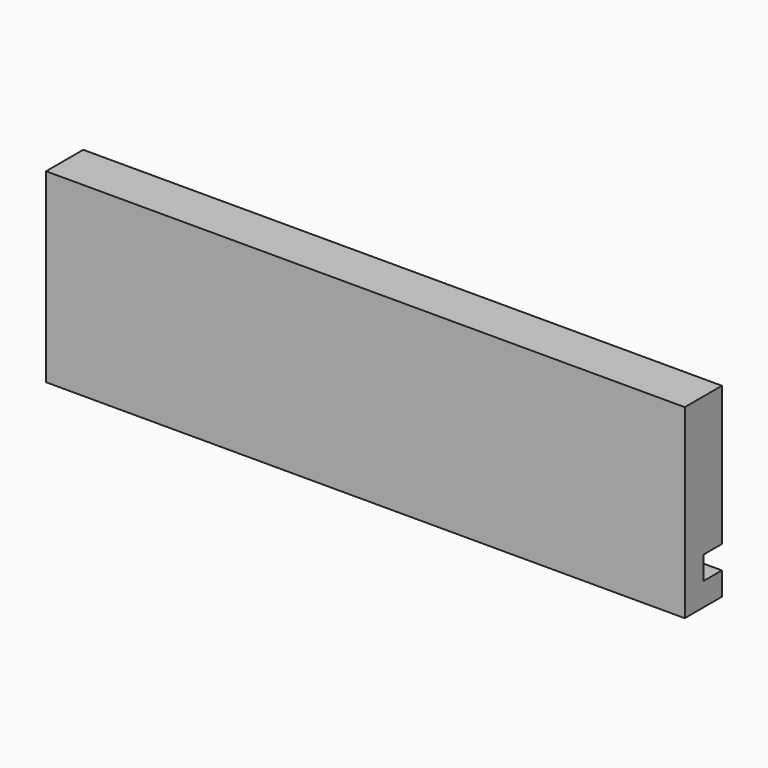
from build123d import *

# Parameters (mm, degrees)
F0_W     = 174.625
F0_H     = 50.8
F1_DEPTH = 12.7
F2_W     = 6.35
F2_H     = 6.35
F3_DEPTH = 174.626


with BuildPart() as f1:
    # F0 (on Front) → F1 (new body)
    with BuildSketch(Plane.XZ):
        Rectangle(F0_W, F0_H)
    extrude(amount=F1_DEPTH)

    # F2 (on face) → F3 (cut, through all)
    with BuildSketch(Plane(origin=(-87.3125, 0, 0), x_dir=(0, -1, 0), z_dir=(-1, 0, 0))):
        with Locations((3.175, -15.875)):
            Rectangle(F2_W, F2_H)
    extrude(amount=-F3_DEPTH, mode=Mode.SUBTRACT)


solid = f1.part
